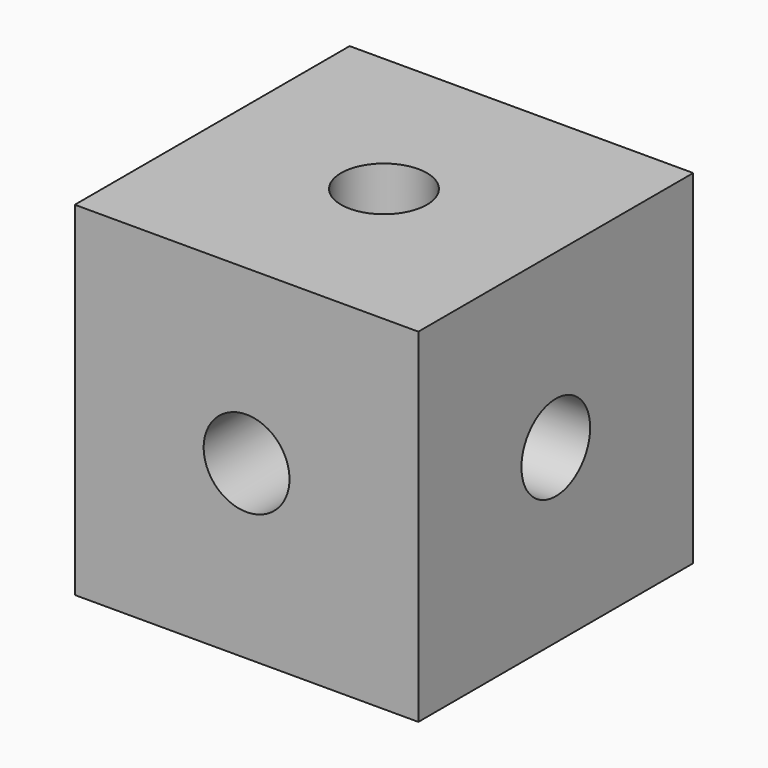
from build123d import *

# Parameters (mm, degrees)
F0_W      = 50.8
F0_H      = 50.8
F1_DEPTH  = 50.8
F2_W      = 101.6
F2_H      = 101.6
F3_DEPTH  = 76.2
F3_FACE_W = 101.6
F3_FACE_H = 101.6
F4_DEPTH  = 25.4
F6_D      = 25.4
F8_D      = 25.4
F10_D     = 25.4


with BuildPart() as f1:
    # F0 (on Front) → F1 (new body)
    with BuildSketch(Plane.XZ):
        with Locations((-25.4, 25.4)):
            Rectangle(F0_W, F0_H)
    extrude(amount=F1_DEPTH)

    # F2 (on Front) → F3 (join)
    with BuildSketch(Plane.XZ):
        with Locations((-25.4, 25.4)):
            Rectangle(F2_W, F2_H)
    extrude(amount=F3_DEPTH)

    # F3_face (on face) → F4 (join)
    with BuildSketch(Plane(origin=(-25.4, 0, 25.4), x_dir=(1, 0, 0), z_dir=(0, 1, 0))):
        Rectangle(F3_FACE_W, F3_FACE_H)
    extrude(amount=F4_DEPTH)

    # F6 (through all)
    with Locations(Plane.XY.offset(76.2)):
        with Locations((-25.4, -25.4)):
            Hole(F6_D / 2)

    # F8 (through all)
    with Locations(Plane(origin=(-76.2, 0, 0), x_dir=(0, -1, 0), z_dir=(-1, 0, 0))):
        with Locations((25.4, 25.4)):
            Hole(F8_D / 2)

    # F10 (through all)
    with Locations(Plane.XZ.offset(76.2)):
        with Locations((-25.4, 25.4)):
            Hole(F10_D / 2)


solid = f1.part
